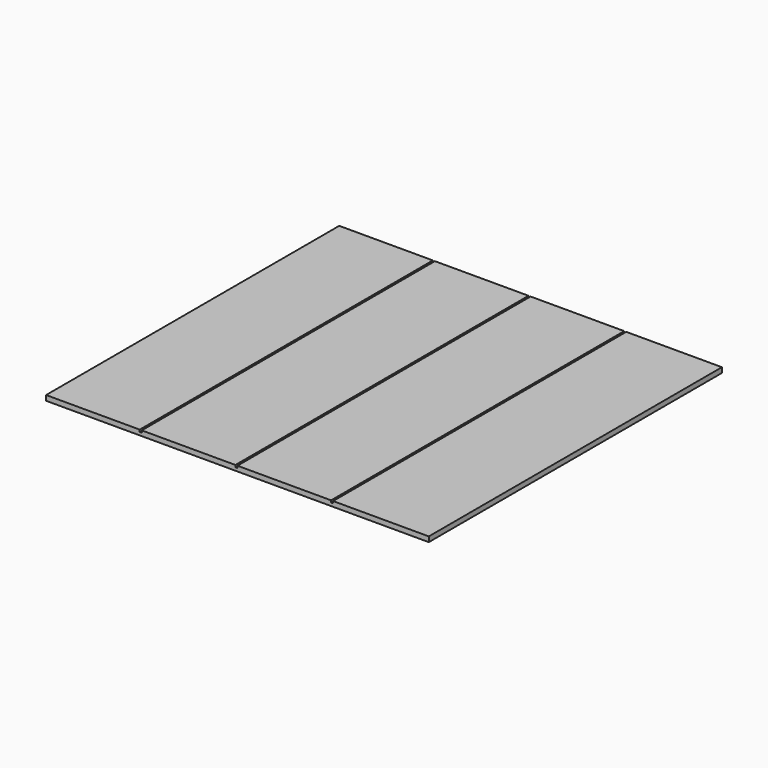
from build123d import *

# Parameters (mm, degrees)
F0_W     = 1880
F0_H     = 1800
F1_DEPTH = 25
F2_W     = 10
F2_H     = 1800
F3_DEPTH = 10


with BuildPart() as f1:
    # F0 (on Top) → F1 (new body)
    with BuildSketch(Plane.XY):
        with Locations((910.826756, 856.591956)):
            Rectangle(F0_W, F0_H)
    extrude(amount=F1_DEPTH)

    # F2 (on face) → F3 (cut)
    with BuildSketch(Plane.XY.offset(25)):
        with Locations((435.826756, 856.591956)):
            Rectangle(F2_W, F2_H)
        with Locations((905.826756, 856.591956)):
            Rectangle(F2_W, F2_H)
        with Locations((1375.826756, 856.591956)):
            Rectangle(F2_W, F2_H)
    extrude(amount=-F3_DEPTH, mode=Mode.SUBTRACT)


solid = f1.part
